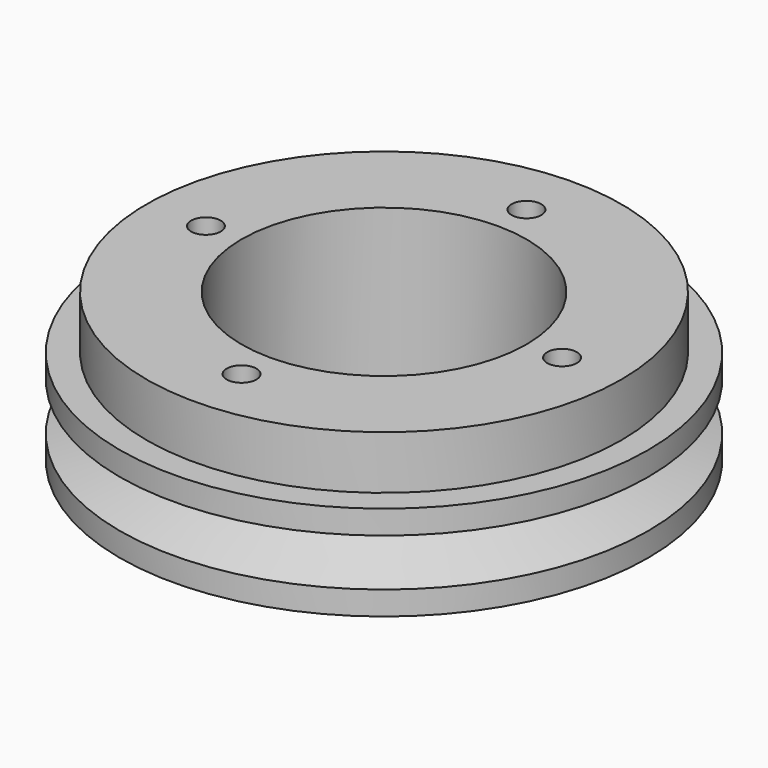
from build123d import *

# Parameters (mm, degrees)
F0_R     = 44.5
F0_R_2   = 40
F0_R_3   = 24
F1_DEPTH = 16
F2_DEPTH = 25
F5_R     = 2.5
F6_DEPTH = 25


with BuildPart() as f1:
    # F0 (on Top) → F1 (new body)
    with BuildSketch(Plane.XY):
        Circle(F0_R)
        Circle(F0_R_2, mode=Mode.SUBTRACT)
        Circle(F0_R)
        Circle(F0_R_2, mode=Mode.SUBTRACT)
        Circle(F0_R_2)
        Circle(F0_R_3, mode=Mode.SUBTRACT)
    extrude(amount=F1_DEPTH)

    # F0 (on Top) → F2 (join)
    with BuildSketch(Plane.XY):
        Circle(F0_R_2)
        Circle(F0_R_3, mode=Mode.SUBTRACT)
    extrude(amount=F2_DEPTH)

    # F3 (on Front) → F4 (revolve, cut)
    with BuildSketch(Plane.XZ):
        Polygon((-34.8, 9.0344123899), (-44.5, 12), (-44.5, 4), (-34.8, 6.9655876101), align=None)
    revolve(axis=Axis((0, 0, -5.6256647222), (0, 0, -1)), mode=Mode.SUBTRACT)

    # F5 (on face) → F6 (cut)
    with BuildSketch(Plane.XY.offset(25)):
        with Locations((0, 30)):
            Circle(F5_R)
        with Locations((30, 0)):
            Circle(F5_R)
        with Locations((0, -30)):
            Circle(F5_R)
        with Locations((-30, 0)):
            Circle(F5_R)
    extrude(amount=-F6_DEPTH, mode=Mode.SUBTRACT)


solid = f1.part
